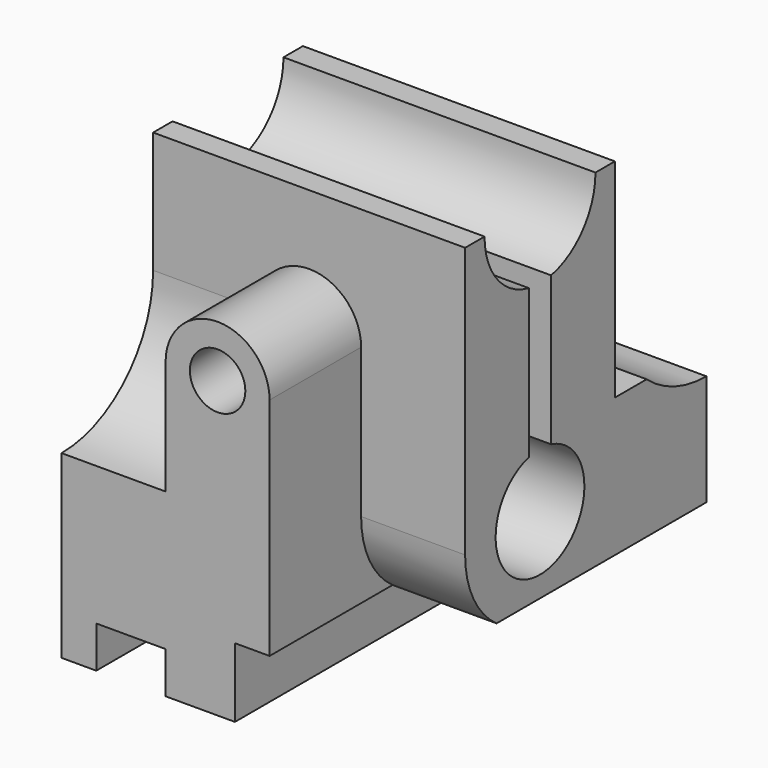
from build123d import *

# Parameters (mm, degrees)
F3_DEPTH  = 90
F4_DEPTH  = 40
F5_DEPTH  = 30
F6_W      = 20
F6_H      = 12
F7_DEPTH  = 120.001
F9_DEPTH  = 33
F8_R      = 8
F10_DEPTH = 120.001
F12_DEPTH = 30


with BuildPart() as f3:
    # F2 (on Right) → F3 (new body)
    with BuildSketch(Plane.YZ):
        Polygon((-60, -22), (-60, -42), (60, -42), (60, -22), (-15.6524758425, -22), align=None)
        with BuildLine():
            Line((-60, 78), (-60, -22))
            Line((-60, -22), (-15.6524758425, -22))
            ThreePointArc((-15.6524758425, -22), (-23.9960084988, -12.3770584602), (-27, 0))
            Line((-27, 0), (-27, 78))
            Line((-27, 78), (-60, 78))
        make_face()
        with BuildLine():
            Line((-15.6524758425, -22), (60, -22))
            Line((60, -22), (60, 10))
            ThreePointArc((60, 10), (48.5108747069, 12.0645834035), (38.4593407715, 18))
            Line((38.4593407715, 18), (27, 18))
            Line((27, 18), (27, 78))
            Line((27, 78), (20, 78))
            ThreePointArc((20, 78), (15.4919333848, 65.3508893593), (4, 58.4040820577))
            Line((4, 58.4040820577), (4, 15.4919333848))
            ThreePointArc((4, 15.4919333848), (0, -16), (-4, 15.4919333848))
            Line((-4, 15.4919333848), (-4, 58.4040820577))
            ThreePointArc((-4, 58.4040820577), (-15.4919333848, 65.3508893593), (-20, 78))
            Line((-20, 78), (-27, 78))
            Line((-27, 78), (-27, 0))
            ThreePointArc((-27, 0), (-23.9960084988, -12.3770584602), (-15.6524758425, -22))
        make_face()
    extrude(amount=-F3_DEPTH)

    # F2 (on Right) → F4 (cut)
    with BuildSketch(Plane.YZ):
        Polygon((-60, -22), (-60, -42), (60, -42), (60, -22), (-15.6524758425, -22), align=None)
    extrude(amount=-F4_DEPTH, mode=Mode.SUBTRACT)

    # F2 (on Right) → F5 (cut)
    with BuildSketch(Plane.YZ):
        with BuildLine():
            Line((-60, 78), (-60, -22))
            Line((-60, -22), (-15.6524758425, -22))
            ThreePointArc((-15.6524758425, -22), (-23.9960084988, -12.3770584602), (-27, 0))
            Line((-27, 0), (-27, 78))
            Line((-27, 78), (-60, 78))
        make_face()
    extrude(amount=-F5_DEPTH, mode=Mode.SUBTRACT)

    # F6 (on face) → F7 (cut, through all)
    with BuildSketch(Plane(origin=(0, 60, 0), x_dir=(-1, 0, 0), z_dir=(0, 1, 0))):
        with Locations((70, -36)):
            Rectangle(F6_W, F6_H)
    extrude(amount=-F7_DEPTH, mode=Mode.SUBTRACT)

    # F8 (on face) → F9 (cut)
    with BuildSketch(Plane.XZ.offset(60)):
        with BuildLine():
            ThreePointArc((-60, 43), (-45, 58), (-30, 43))
            Line((-30, 43), (-30, 78))
            Line((-30, 78), (-90, 78))
            Line((-90, 78), (-90, 10))
            Line((-90, 10), (-60, 10))
            Line((-60, 10), (-60, 43))
        make_face()
    extrude(amount=-F9_DEPTH, mode=Mode.SUBTRACT)

    # F8 (on face) → F10 (cut, through all)
    with BuildSketch(Plane.XZ.offset(60)):
        with Locations((-45, 43)):
            Circle(F8_R)
    extrude(amount=-F10_DEPTH, mode=Mode.SUBTRACT)

    # F11 (on face) → F12 (join, through all)
    with BuildSketch(Plane(origin=(-90, 0, 0), x_dir=(0, -1, 0), z_dir=(-1, 0, 0))):
        with BuildLine():
            ThreePointArc((60, 10), (36.6654762208, 19.6654762208), (27, 43))
            Line((27, 43), (27, 10))
            Line((27, 10), (60, 10))
        make_face()
    extrude(amount=-F12_DEPTH)


solid = f3.part
